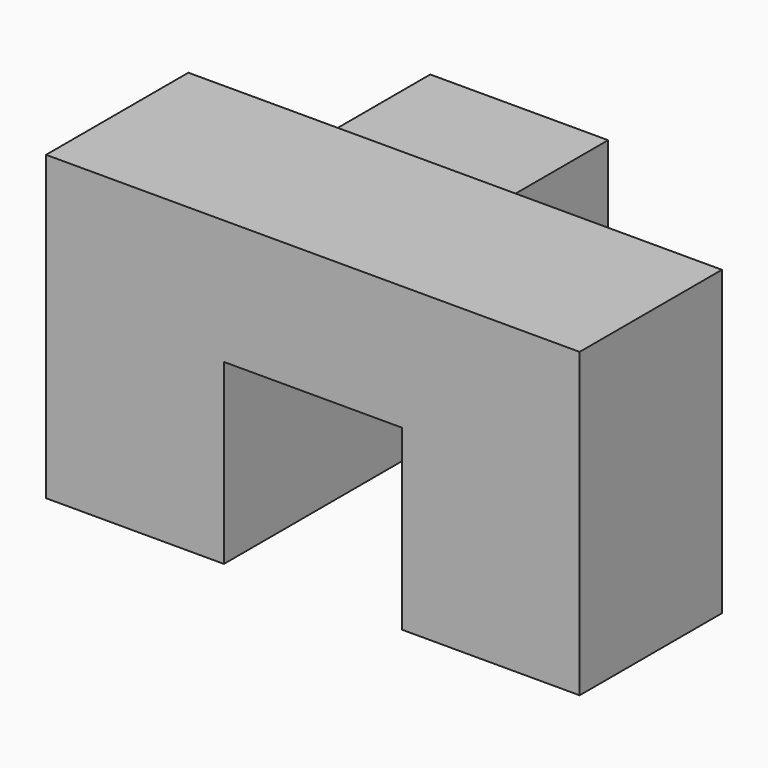
from build123d import *

# Parameters (mm, degrees)
F0_W     = 68.58
F0_H     = 25.4
F1_DEPTH = 25.4
F2_W     = 25.4
F2_H     = 25.4
F3_DEPTH = 17.78
F4_W     = 25.4
F4_H     = 17.78
F5_DEPTH = 50.8
F6_W     = 25.4
F6_H     = 25.4
F7_DEPTH = 25.4


with BuildPart() as f1:
    # F0 (on Right) → F1 (new body)
    with BuildSketch(Plane.YZ):
        with Locations((43.169466, 18.918027)):
            Rectangle(F0_W, F0_H)
    extrude(amount=F1_DEPTH)

    # F2 (on face) → F3 (join)
    with BuildSketch(Plane.XY.offset(31.618027)):
        with Locations((12.7, 21.579466)):
            Rectangle(F2_W, F2_H)
    extrude(amount=F3_DEPTH)

    # F4 (on face) → F5 (join)
    with BuildSketch(Plane.YZ.offset(25.4)):
        with Locations((21.579466, 40.508027)):
            Rectangle(F4_W, F4_H)
    extrude(amount=F5_DEPTH)

    # F6 (on face) → F7 (join)
    with BuildSketch(Plane(origin=(0, 0, 31.618027), x_dir=(1, 0, 0), z_dir=(0, 0, -1))):
        with Locations((63.5, -21.579466)):
            Rectangle(F6_W, F6_H)
    extrude(amount=F7_DEPTH)


solid = f1.part
